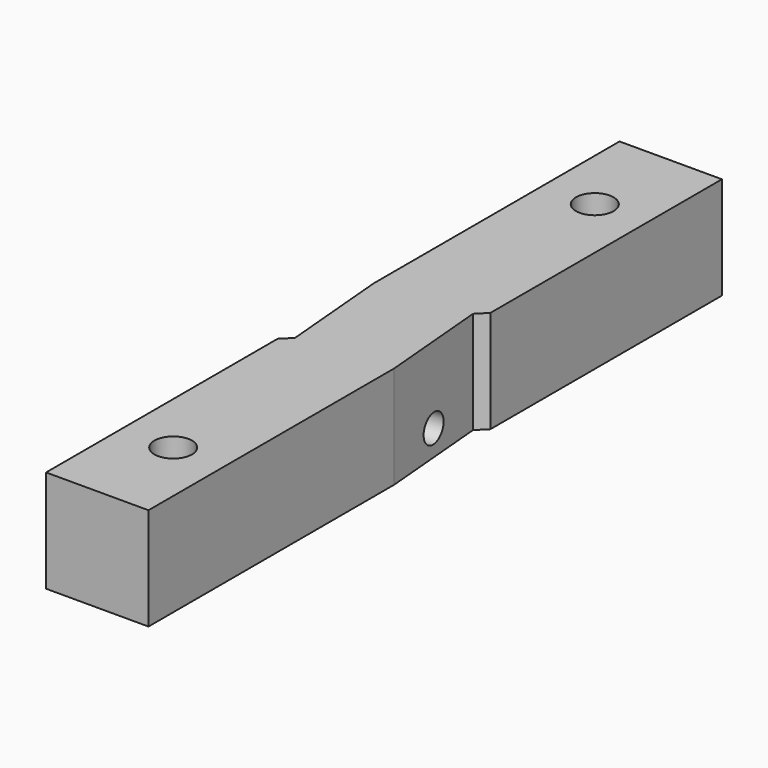
from build123d import *

# Parameters (mm, degrees)
PAD007_DEPTH         = 12
SKETCH065_R          = 2.2
POCKET021_DEPTH      = 0.001
POCKET021_DEPTH_BACK = 42.001
SKETCH025_R          = 1.65
POCKET022_DEPTH      = 9.638709
POCKET022_DEPTH_BACK = 9.638709


with BuildPart() as part:
    # Sketch023 → Pad007 (new body)
    with BuildSketch(Plane.YZ):
        Polygon((42, 42), (42, 30), (19.75, 30), (-19.75, 30), (-42, 30), (-42, 42), (-11, 42), (11, 42), align=None)
    extrude(amount=PAD007_DEPTH)

    # Sketch065 → Pocket021 (cut, two sides)
    with BuildSketch(Plane.XY) as pocket021_sk:
        with Locations((6, 30.875)):
            Circle(SKETCH065_R)
        with Locations((6, -30.875)):
            Circle(SKETCH065_R)
        Polygon((10.866975, 6.950634), (13, 9.083659), (13, -5.999897), (12, -5.999897), align=None)
        Polygon((0, 5.999897), (-1, 5.999897), (-1, -9.083659), (1.133025, -6.950634), align=None)
    extrude(amount=-POCKET021_DEPTH, mode=Mode.SUBTRACT)
    extrude(pocket021_sk.sketch, amount=POCKET021_DEPTH_BACK, mode=Mode.SUBTRACT)

    # Sketch025 (on DatumPlane) → Pocket022 (cut, two sides)
    with BuildSketch(Plane(origin=(6, 0, 0), x_dir=(-0.087156, 0.996195, 0), z_dir=(0.996195, 0.087156, 0))) as pocket022_sk:
        with Locations((0, 33)):
            Circle(SKETCH025_R)
    extrude(amount=-POCKET022_DEPTH, mode=Mode.SUBTRACT)
    extrude(pocket022_sk.sketch, amount=POCKET022_DEPTH_BACK, mode=Mode.SUBTRACT)


with BuildPart() as part_1:
    # Body008 placement: moved
    add(part.part.moved(Location((122.7, 0, 834))))


solid = part_1.part
